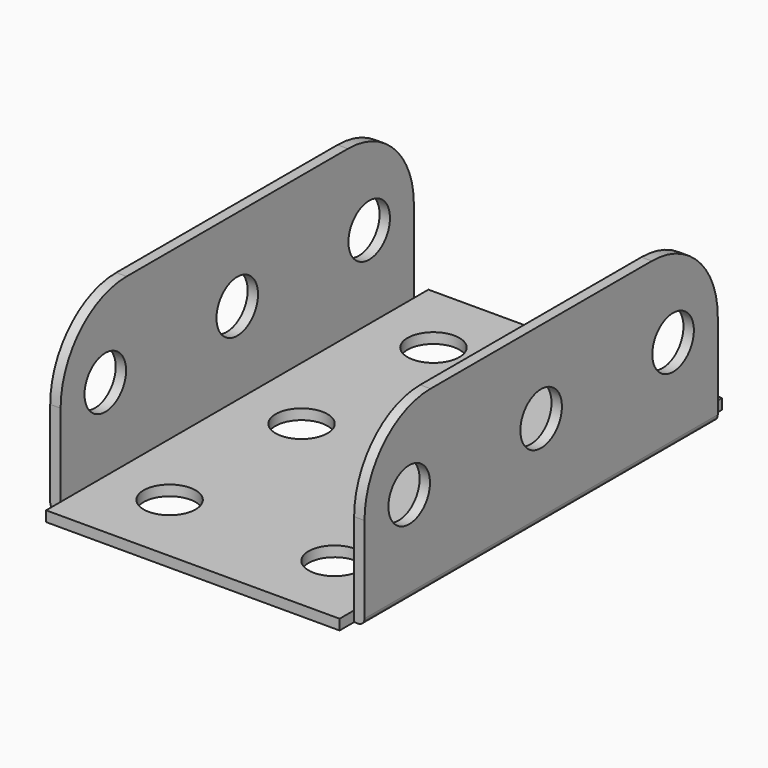
from build123d import *

# Parameters (mm, degrees)
F0_R     = 2
F0_W     = 0.8
F0_H     = 34
F1_DEPTH = 0.8
F2_W     = 0.8
F2_H     = 34
F3_DEPTH = 12.7
F5_R     = 6.35
F6_D     = 4
F7_R     = 0.5


with BuildPart() as f1:
    # F0 (on Top) → F1 (new body)
    with BuildSketch(Plane.XY):
        Polygon((11.3, 17), (11.3, 18.4), (-11.3, 18.4), (-11.3, 17), (-11.3, -17), (-11.3, -18.4), (11.3, -18.4), (11.3, -17), align=None)
        with Locations((-6.35, -12.7)):
            Circle(F0_R, mode=Mode.SUBTRACT)
        with Locations((6.35, -12.7)):
            Circle(F0_R, mode=Mode.SUBTRACT)
        with Locations((-6.35, 0)):
            Circle(F0_R, mode=Mode.SUBTRACT)
        with Locations((-6.35, 12.7)):
            Circle(F0_R, mode=Mode.SUBTRACT)
        with Locations((6.35, 0)):
            Circle(F0_R, mode=Mode.SUBTRACT)
        with Locations((6.35, 12.7)):
            Circle(F0_R, mode=Mode.SUBTRACT)
        with Locations((11.7, 0)):
            Rectangle(F0_W, F0_H)
        with Locations((-11.7, 0)):
            Rectangle(F0_W, F0_H)
    extrude(amount=F1_DEPTH)

    # F2 (on face) → F3 (join)
    with BuildSketch(Plane.XY.offset(0.8)):
        with Locations((-11.7, 0)):
            Rectangle(F2_W, F2_H)
        with Locations((11.7, 0)):
            Rectangle(F2_W, F2_H)
    extrude(amount=F3_DEPTH)

    # F5
    f5_edges = [f1.edges().sort_by_distance(p)[0] for p in [
        (11.7, 17, 13.5),
        (-11.7, 17, 13.5),
        (11.7, -17, 13.5),
        (-11.7, -17, 13.5),
    ]]
    fillet(f5_edges, radius=F5_R)

    # F6 (through all)
    with Locations(Plane.YZ.offset(12.1)):
        with Locations((-12.7, 7.15), (0, 7.15), (12.7, 7.15)):
            Hole(F6_D / 2)

    # F7
    f7_edges = [f1.edges().sort_by_distance(p)[0] for p in [
        (12.1, 0, 0),
        (-12.1, 0, 0),
    ]]
    fillet(f7_edges, radius=F7_R)


solid = f1.part
